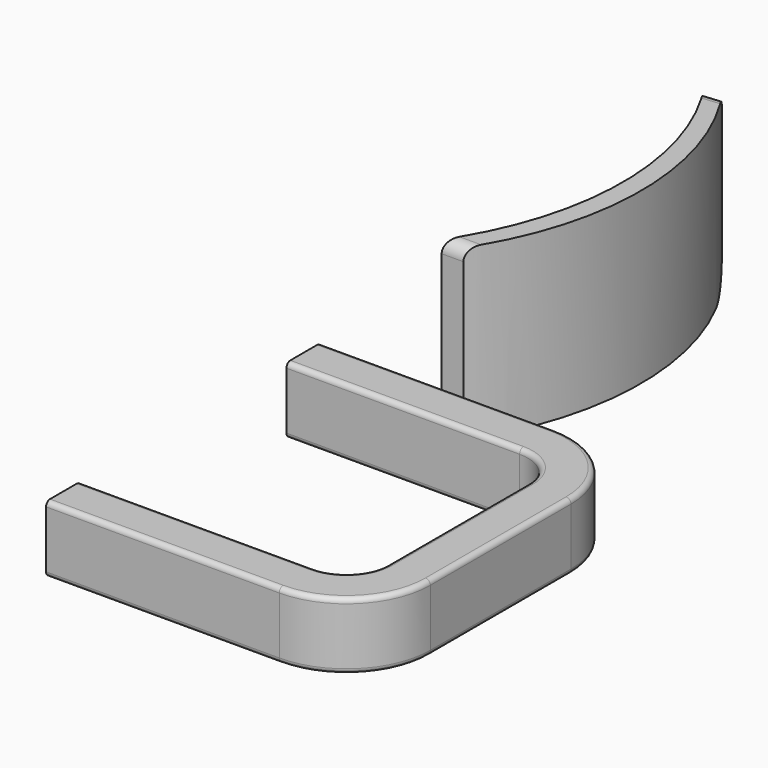
from build123d import *

# Parameters (mm, degrees)
F4_DEPTH = 26.4
F5_R     = 5
F6_R     = 1.931371


with BuildPart() as f2:
    # F2: sweep along a path in F0
    with BuildLine(Plane.XY) as f2_path:
        Line((0, 0), (36.295343, 0))
        ThreePointArc((36.295343, 0), (40.785471, -1.859872), (42.645343, -6.35))
        Line((42.645343, -6.35), (42.645343, -33.695246))
        ThreePointArc((42.645343, -33.695246), (40.785471, -38.185375), (36.295343, -40.045246))
        Line((36.295343, -40.045246), (0, -40.045246))
    # F1 (on Right) → F2 (sweep)
    with BuildSketch(Plane.YZ):
        with BuildLine():
            ThreePointArc((0, 0.758383), (0.222125, 0.222125), (0.758383, 0))
            Line((0.758383, 0), (5.961396, 0))
            ThreePointArc((5.961396, 0), (6.497654, 0.222125), (6.719779, 0.758383))
            Line((6.719779, 0.758383), (6.719779, 9.651675))
            ThreePointArc((6.719779, 9.651675), (6.497654, 10.187932), (5.961396, 10.410057))
            Line((5.961396, 10.410057), (0.758383, 10.410057))
            ThreePointArc((0.758383, 10.410057), (0.222125, 10.187932), (0, 9.651675))
            Line((0, 9.651675), (0, 0.758383))
        make_face()
    sweep(path=f2_path.line)


with BuildPart() as f4:
    # F3 (on Top) → F4 (new body)
    with BuildSketch(Plane.XY):
        with BuildLine():
            Line((13.692821, 13.086937), (17.085731, 13.086937))
            ThreePointArc((17.085731, 13.086937), (24.591012, 38.607545), (16.60103, 63.980579))
            Line((16.60103, 63.980579), (13.935172, 63.738227))
            ThreePointArc((13.935172, 63.738227), (21.447874, 38.376056), (13.692821, 13.086937))
        make_face()
    extrude(amount=F4_DEPTH)

    # F5
    f5_edges = [f4.edges().sort_by_distance(p)[0] for p in [
        (15.268101, 63.859403, 0),
        (15.389276, 13.086937, 0),
    ]]
    fillet(f5_edges, radius=F5_R)

    # F6
    f6_edges = [f4.edges().sort_by_distance(p)[0] for p in [
        (15.268101, 63.859403, 26.4),
        (15.389276, 13.086937, 26.4),
    ]]
    fillet(f6_edges, radius=F6_R)


solid = Compound([f2.part, f4.part])
